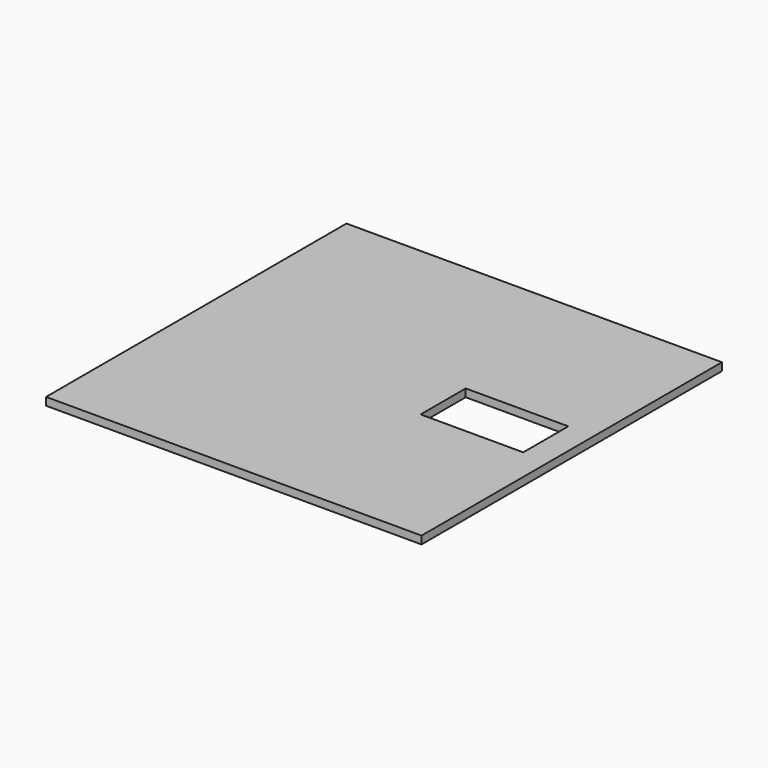
from build123d import *

# Parameters (mm, degrees)
F1_W     = 152.4
F1_H     = 152.4
F1_W_2   = 41.656
F1_H_2   = 22.86
F2_DEPTH = 3.175


with BuildPart() as f2:
    # F1 (on face) → F2 (new body)
    with BuildSketch(Plane.XY):
        Rectangle(F1_W, F1_H)
        with Locations((44.837969, 0)):
            Rectangle(F1_W_2, F1_H_2, mode=Mode.SUBTRACT)
    extrude(amount=F2_DEPTH)


solid = f2.part
